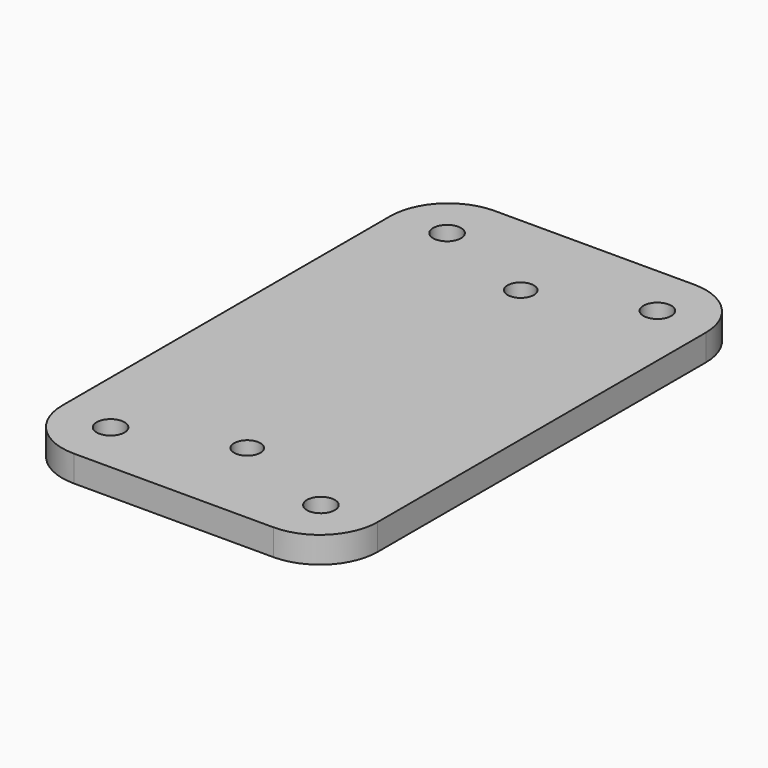
from build123d import *

# Parameters (mm, degrees)
SKETCH_W        = 60
SKETCH_H        = 100
PAD_DEPTH       = 5
SKETCH001_R     = 2.65
POCKET_DEPTH    = 5
FILLET_R        = 11
SKETCH002_R     = 2.5
POCKET001_DEPTH = 5


with BuildPart() as part:
    # Sketch → Pad (new body)
    with BuildSketch(Plane.XY):
        Rectangle(SKETCH_W, SKETCH_H)
    extrude(amount=PAD_DEPTH)

    # Sketch001 (on Face6 of Pad) → Pocket (cut)
    with BuildSketch(Plane.XY.offset(5)):
        with Locations((-20, 40)):
            Circle(SKETCH001_R)
        with Locations((20, 40)):
            Circle(SKETCH001_R)
        with Locations((-20, -40)):
            Circle(SKETCH001_R)
        with Locations((20, -40)):
            Circle(SKETCH001_R)
    extrude(amount=-POCKET_DEPTH, mode=Mode.SUBTRACT)

    # Fillet
    fillet_edges = [part.edges().sort_by_distance(p)[0] for p in [
        (30, 50, 2.5),
        (30, -50, 2.5),
        (-30, 50, 2.5),
        (-30, -50, 2.5),
    ]]
    fillet(fillet_edges, radius=FILLET_R)

    # Sketch002 (on Face5 of Fillet) → Pocket001 (cut)
    with BuildSketch(Plane.XY.offset(5)):
        with Locations((0, 32.5)):
            Circle(SKETCH002_R)
        with Locations((0, -32.5)):
            Circle(SKETCH002_R)
    extrude(amount=-POCKET001_DEPTH, mode=Mode.SUBTRACT)


solid = part.part
